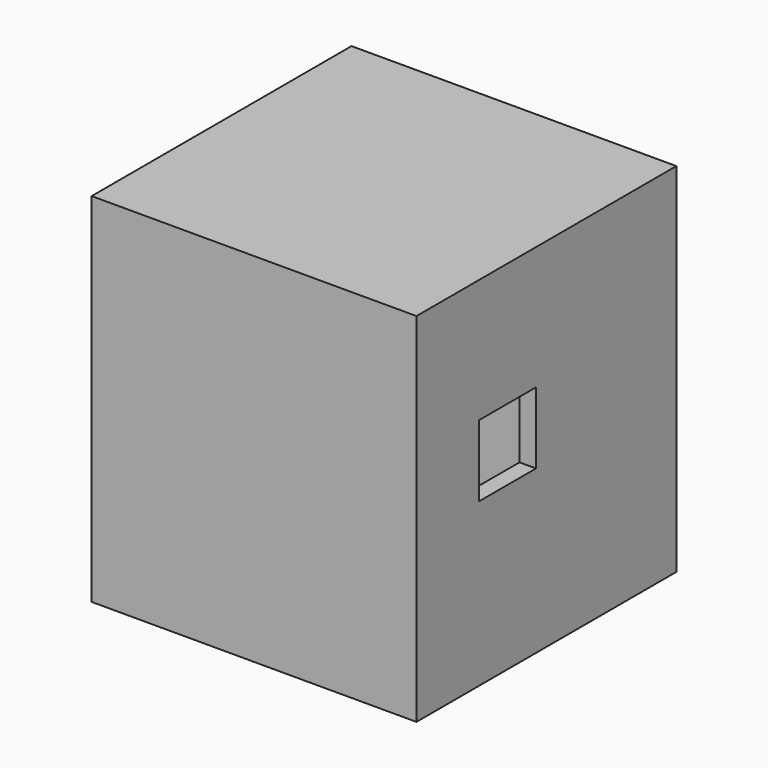
from build123d import *

# Parameters (mm, degrees)
F0_W     = 50
F0_H     = 55
F1_DEPTH = 50
F2_T     = -2.54
F3_W     = 11
F3_H     = 11
F4_DEPTH = 10
F5_W     = 11
F5_H     = 11
F6_DEPTH = 10


with BuildPart() as f1:
    # F0 (on Front) → F1 (new body)
    with BuildSketch(Plane.XZ):
        Rectangle(F0_W, F0_H)
    extrude(amount=-F1_DEPTH)

    # F2
    f2_openings = [f1.faces().sort_by_distance(p)[0] for p in [
        (0, 25, -27.5),
    ]]
    offset(amount=F2_T, openings=f2_openings)

    # F3 (on face) → F4 (cut)
    with BuildSketch(Plane(origin=(-25, 0, 0), x_dir=(0, -1, 0), z_dir=(-1, 0, 0))):
        with Locations((-32.5, 3)):
            Rectangle(F3_W, F3_H)
    extrude(amount=-F4_DEPTH, mode=Mode.SUBTRACT)

    # F5 (on face) → F6 (cut)
    with BuildSketch(Plane.YZ.offset(25)):
        with Locations((17.5, 3)):
            Rectangle(F5_W, F5_H)
    extrude(amount=-F6_DEPTH, mode=Mode.SUBTRACT)


solid = f1.part
